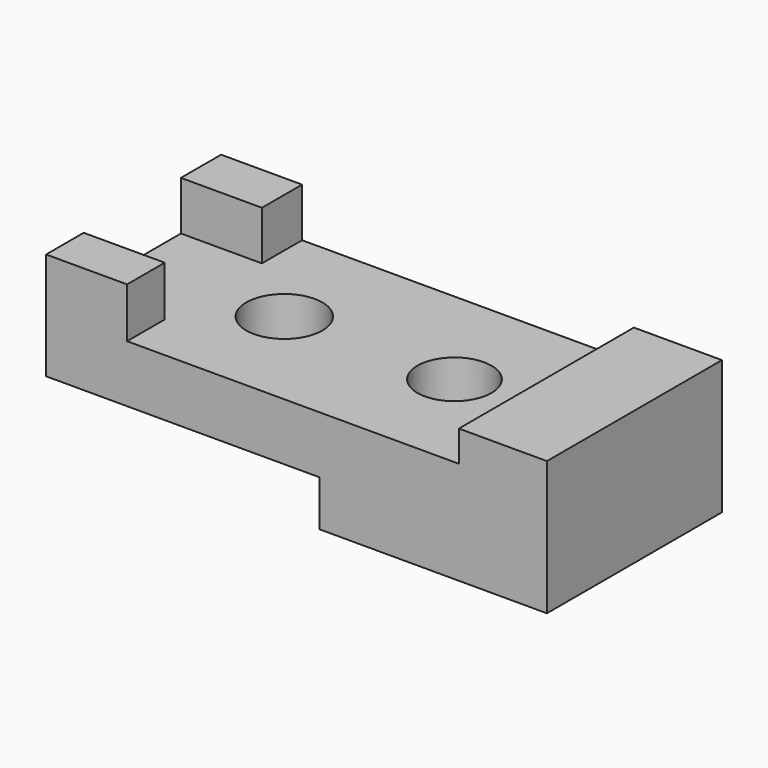
from build123d import *

# Parameters (mm, degrees)
F0_W     = 95.7072004676
F0_H     = 63.0935970694
F0_R     = 10.9823224345
F0_R_2   = 10.6777928839
F1_DEPTH = 16.51
F2_W     = 63.0935970694
F2_H     = 25.4507996142
F3_DEPTH = 25.4
F4_W     = 65.6336008847
F4_H     = 63.0935970694
F5_DEPTH = 13.208
F6_W     = 14.4779980183
F6_H     = 14.1224008852
F6_W_2   = 13.5636003688
F6_H_2   = 14.4272004122
F7_DEPTH = 23.368


with BuildPart() as f1:
    # F0 (on Top) → F1 (new body)
    with BuildSketch(Plane.XY):
        with Locations((-7.6199993491, 4.5719994232)):
            Rectangle(F0_W, F0_H)
        with Locations((-35.3568010032, 4.5719994232)):
            Circle(F0_R, mode=Mode.SUBTRACT)
        with Locations((13.7159992009, 4.5719994232)):
            Circle(F0_R_2, mode=Mode.SUBTRACT)
    extrude(amount=F1_DEPTH)

    # F2 (on face) → F3 (join)
    with BuildSketch(Plane.YZ.offset(40.2336008847)):
        with Locations((4.5719994232, 12.7253998071)):
            Rectangle(F2_W, F2_H)
    extrude(amount=F3_DEPTH)

    # F4 (on face) → F5 (join)
    with BuildSketch(Plane(origin=(0, 0, 0), x_dir=(1, 0, 0), z_dir=(0, 0, -1))):
        with Locations((32.8168004423, -4.5719994232)):
            Rectangle(F4_W, F4_H)
    extrude(amount=F5_DEPTH)

    # F6 (on face) → F7 (join)
    with BuildSketch(Plane(origin=(-55.4735995829, 0, 0), x_dir=(0, -1, 0), z_dir=(-1, 0, 0))):
        with Locations((-28.8797989488, 23.5712004426)):
            Rectangle(F6_W, F6_H)
        Polygon((-21.6407999396, 16.51), (-36.1187979579, 16.51), (-36.1187979579, 0), (26.9747991115, 0), (26.9747991115, 16.51), (13.4111987427, 16.51), align=None)
        with Locations((20.1929989271, 23.7236002061)):
            Rectangle(F6_W_2, F6_H_2)
    extrude(amount=F7_DEPTH)


solid = f1.part
